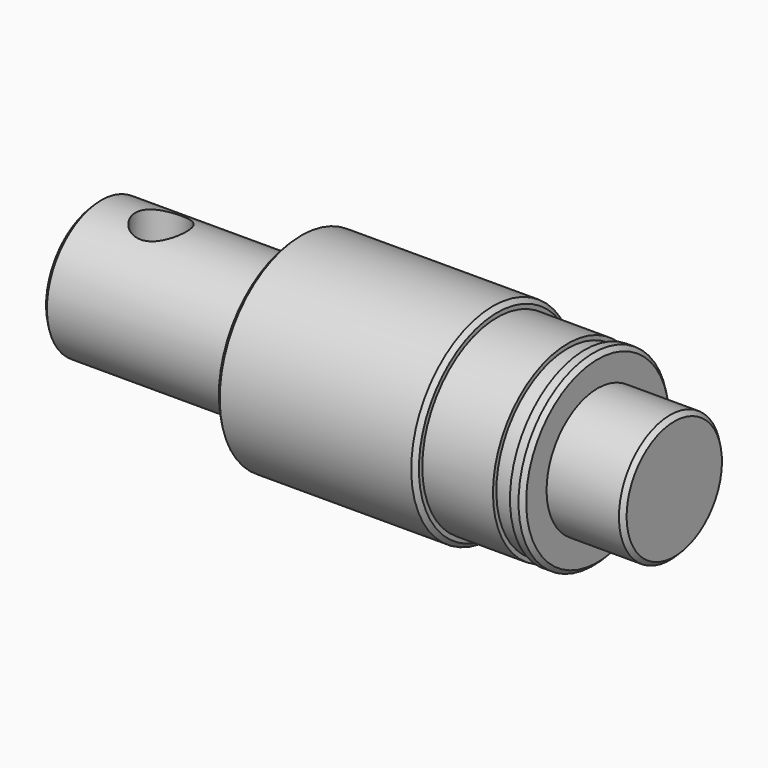
from build123d import *

# Parameters (mm, degrees)
F2_SIZE   = 0.5
F3_R      = 11
F3_R_2    = 10.5
F4_DEPTH  = 1.5
F6_R      = 11
F6_R_2    = 10.5
F7_DEPTH  = 8.3
F8_SIZE   = 0.5
F11_DEPTH = 25
F12_R     = 3
F13_DEPTH = 12.5


with BuildPart() as f1:
    # F0 (on Front) → F1 (revolve)
    with BuildSketch(Plane.XZ):
        Polygon((0, 4), (0, 0), (32.3, 0), (32.3, 7.5), (23.3, 7.5), (23.3, 10.5), (11.5, 10.5), (11.5, 12), (-12, 12), (-12, 8), (-35.5, 8), (-35.5, 4), align=None)
    revolve(axis=Axis((16.15, 0, 0), (-1, 0, 0)))

    # F2
    f2_edges = [f1.edges().sort_by_distance(p)[0] for p in [
        (-12, 0, -12),
    ]]
    chamfer(f2_edges, length=F2_SIZE)

    # F3 (on face) → F4 (join)
    with BuildSketch(Plane.YZ.offset(23.3)):
        Circle(F3_R)
        Circle(F3_R_2, mode=Mode.SUBTRACT)
    extrude(amount=-F4_DEPTH)

    # F6 (on offset) → F7 (join, through all)
    with BuildSketch(Plane(origin=(19.8, 0, 0), x_dir=(0, -1, 0), z_dir=(-1, 0, 0))):
        Circle(F6_R)
        Circle(F6_R_2, mode=Mode.SUBTRACT)
    extrude(amount=F7_DEPTH)

    # F8
    f8_edges = [f1.edges().sort_by_distance(p)[0] for p in [
        (32.3, 0, -7.5),
        (23.3, -11, 0),
        (11.5, 0, -12),
        (-35.5, 0, -8),
    ]]
    chamfer(f8_edges, length=F8_SIZE)

    # F10 (on offset) → F11 (cut)
    with BuildSketch(Plane.XZ.offset(-7.5)):
        with BuildLine():
            Line((11.5, -3), (16.5, -3))
            ThreePointArc((16.5, -3), (19.5, 0), (16.5, 3))
            Line((16.5, 3), (11.5, 3))
            ThreePointArc((11.5, 3), (8.5, 0), (11.5, -3))
        make_face()
    extrude(amount=-F11_DEPTH, mode=Mode.SUBTRACT)

    # F12 (on Top) → F13 (cut, symmetric)
    with BuildSketch(Plane.XY):
        with Locations((-28, 0)):
            Circle(F12_R)
    extrude(amount=F13_DEPTH, both=True, mode=Mode.SUBTRACT)


solid = f1.part
